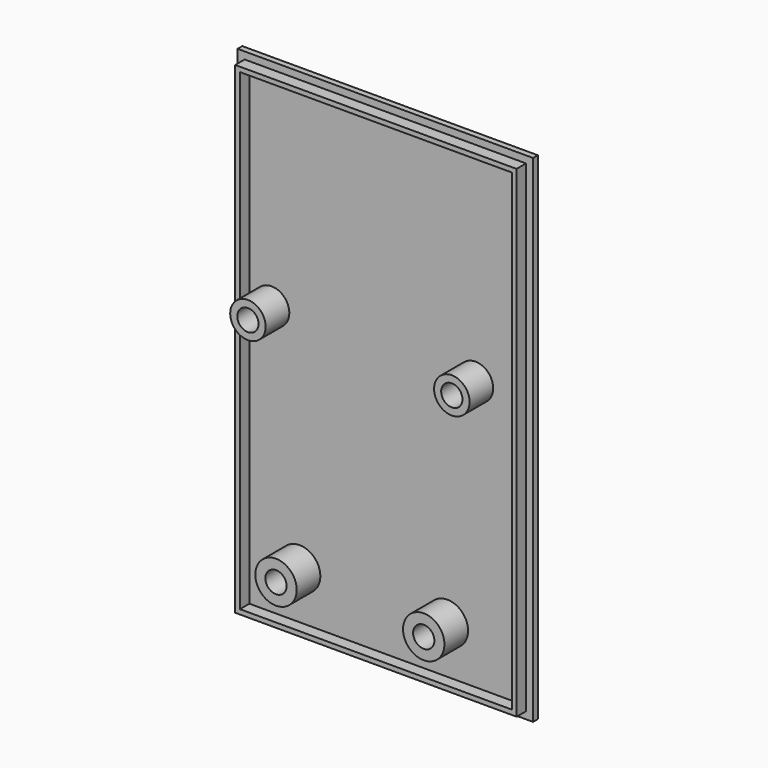
from build123d import *

# Parameters (mm, degrees)
PAD_DEPTH       = 3
POCKET_DEPTH    = 2
SKETCH004_W     = 50
SKETCH004_H     = 84
SKETCH004_W_2   = 47.6
SKETCH004_H_2   = 81.6
POCKET001_DEPTH = 2
SKETCH005_R     = 3.5
SKETCH005_R_2   = 3
PAD001_DEPTH    = 6
SKETCH_R        = 1.8
POCKET002_DEPTH = 5


with BuildPart() as part:
    # Sketch002 → Pad (new body)
    with BuildSketch(Plane(origin=(0, 1, 0), x_dir=(-1, 0, 0), z_dir=(0, 1, 0))):
        Polygon((-44, -64), (2, -64), (2, 20), (-44, 20), (-48, 20), (-48, -64), align=None)
    extrude(amount=PAD_DEPTH)

    # Sketch003 → Pocket (cut)
    with BuildSketch(Plane(origin=(0, 1, 0), x_dir=(-1, 0, 0), z_dir=(0, 1, 0))):
        Polygon((-42, -62), (0, -62), (0, 18), (-42, 18), (-46, 18), (-46, -62), align=None)
    extrude(amount=POCKET_DEPTH, mode=Mode.SUBTRACT)

    # Sketch004 → Pocket001 (cut)
    with BuildSketch(Plane(origin=(0, 1, 0), x_dir=(-1, 0, 0), z_dir=(0, 1, 0))):
        with Locations((-23, -22)):
            Rectangle(SKETCH004_W, SKETCH004_H)
        with Locations((-23, -22)):
            Rectangle(SKETCH004_W_2, SKETCH004_H_2, mode=Mode.SUBTRACT)
    extrude(amount=POCKET001_DEPTH, mode=Mode.SUBTRACT)

    # Sketch005 (on Face4 of Pocket001) → Pad001 (join)
    with BuildSketch(Plane(origin=(0, 4, 0), x_dir=(-1, 0, 0), z_dir=(0, 1, 0))):
        with Locations((-33.499998, -54)):
            Circle(SKETCH005_R)
        with Locations((-8.499999, -53.999999)):
            Circle(SKETCH005_R)
        with Locations((-38.250001, -16.5)):
            Circle(SKETCH005_R_2)
        with Locations((-3.75, -16.5)):
            Circle(SKETCH005_R_2)
    extrude(amount=-PAD001_DEPTH)

    # Sketch (on Face30 of Pad001) → Pocket002 (cut)
    with BuildSketch(Plane(origin=(0, -2, 0), x_dir=(-1, 0, 0), z_dir=(0, -1, 0))):
        with Locations((-33.499998, 54)):
            Circle(SKETCH_R)
        with Locations((-8.499999, 53.999999)):
            Circle(SKETCH_R)
        with Locations((-38.250001, 16.5)):
            Circle(SKETCH_R)
        with Locations((-3.75, 16.5)):
            Circle(SKETCH_R)
    extrude(amount=-POCKET002_DEPTH, mode=Mode.SUBTRACT)


solid = part.part
